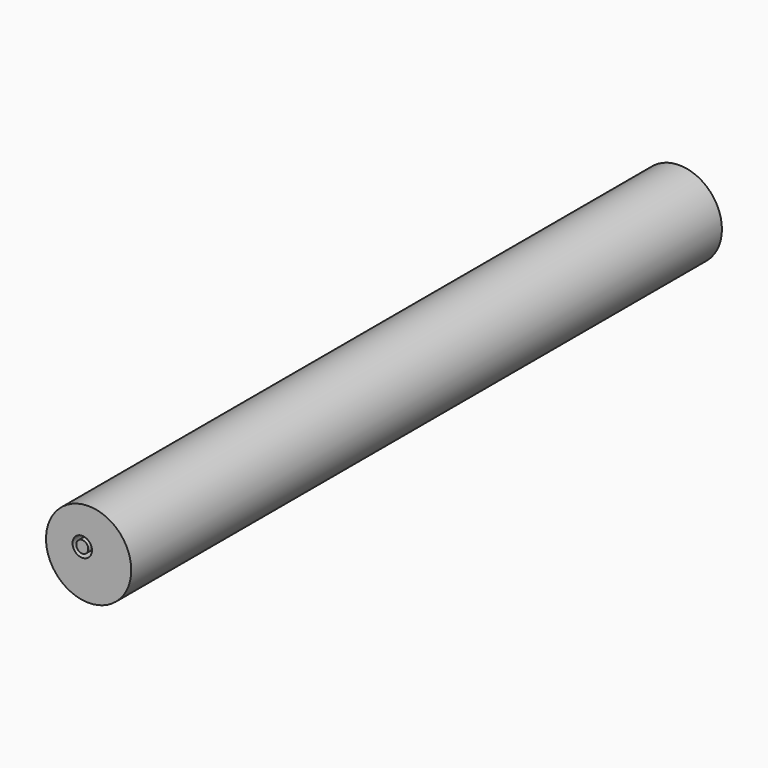
from build123d import *

# Parameters (mm, degrees)
F0_R     = 5.86475
F1_DEPTH = 101.6
F2_R     = 1.337206
F2_R_2   = 0.824327
F3_DEPTH = 101.6


with BuildPart() as f1:
    # F0 (on Front) → F1 (new body)
    with BuildSketch(Plane.XZ):
        Circle(F0_R)
    extrude(amount=F1_DEPTH)

    # F2 (on face) → F3 (cut)
    with BuildSketch(Plane.XZ.offset(101.6)):
        with Locations((-0.878043, 0.641273)):
            Circle(F2_R)
        with Locations((-0.878043, 0.641273)):
            Circle(F2_R_2, mode=Mode.SUBTRACT)
    extrude(amount=-F3_DEPTH, mode=Mode.SUBTRACT)


solid = f1.part
